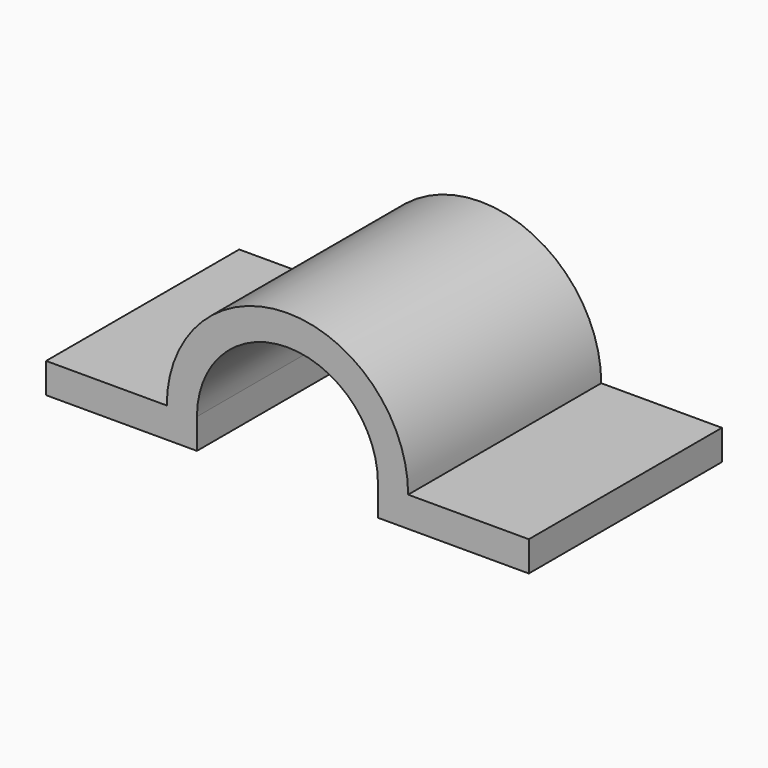
from build123d import *

# Parameters (mm, degrees)
PAD_DEPTH = 20


with BuildPart() as part:
    # Sketch → Pad (new body, symmetric)
    with BuildSketch(Plane.XZ):
        with BuildLine():
            ThreePointArc((20, 0), (0, 20), (-20, 0))
            Line((-40, 0), (-20, 0))
            Line((-40, -5), (-40, 0))
            Line((-15, -5), (-40, -5))
            Line((-15, 0), (-15, -5))
            ThreePointArc((15, 0), (0, 15), (-15, 0))
            Line((15, 0), (15, -5))
            Line((15, -5), (40, -5))
            Line((40, -5), (40, 0))
            Line((20, 0), (40, 0))
        make_face()
    extrude(amount=PAD_DEPTH, both=True)


solid = part.part
